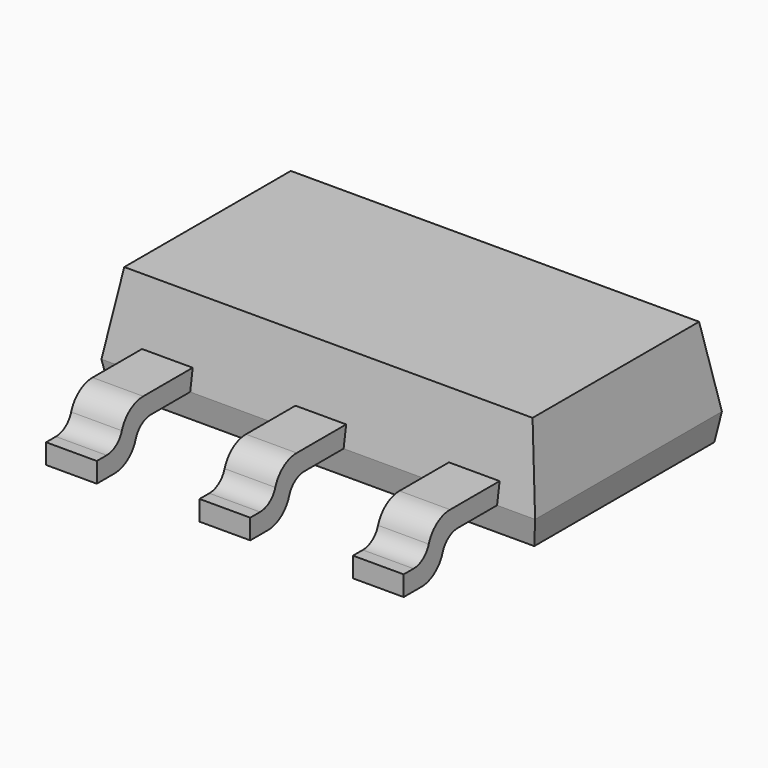
from build123d import *

# Parameters (mm, degrees)
F3_W      = 3
F3_H      = 1.37
F3_W_2    = 1.54
F3_W_3    = 0.76
F3_H_2    = 0.38
F4_DEPTH  = 1.2
F4_TAPER  = 9
F4_FACE_W = 6.5
F4_FACE_H = 3.5
F5_DEPTH  = 0.4
F5_TAPER  = 9
F3_H_3    = 1
F3_H_4    = 0.3
F6_DEPTH  = 0.3
F3_H_5    = 0.45
F7_DEPTH  = 0.5
F8_DEPTH  = 0.2
F9_R      = 0.42
F10_R     = 0.3


with BuildPart() as f4:
    # F3 (on Top) → F4 (new body)
    with BuildSketch(Plane.XY):
        Polygon((2.68, -1.75), (3.25, -1.75), (3.25, 1.75), (1.5, 1.75), (1.5, 0.38), (2.68, 0.38), (2.68, 0), (2.68, -0.38), align=None)
        with Locations((0, 1.065)):
            Rectangle(F3_W, F3_H)
        with Locations((1.15, -1.065)):
            Rectangle(F3_W_2, F3_H)
        Polygon((1.5, 0), (1.5, 0.38), (-1.5, 0.38), (-1.5, 0), (-0.38, 0), (0.38, 0), align=None)
        Polygon((0.38, -0.38), (1.92, -0.38), (1.92, 0), (2.68, 0), (2.68, 0.38), (1.5, 0.38), (1.5, 0), (0.38, 0), align=None)
        with Locations((2.3, -0.19)):
            Rectangle(F3_W_3, F3_H_2)
        with Locations((2.3, -1.065)):
            Rectangle(F3_W_3, F3_H)
        with Locations((0, -1.065)):
            Rectangle(F3_W_3, F3_H)
        with Locations((0, -0.19)):
            Rectangle(F3_W_3, F3_H_2)
        with Locations((-1.15, -1.065)):
            Rectangle(F3_W_2, F3_H)
        Polygon((-1.5, 0), (-1.5, 0.38), (-2.68, 0.38), (-2.68, 0), (-1.92, 0), (-1.92, -0.38), (-0.38, -0.38), (-0.38, 0), align=None)
        Polygon((-1.5, 0.38), (-1.5, 1.75), (-3.25, 1.75), (-3.25, -1.75), (-2.68, -1.75), (-2.68, -0.38), (-2.68, 0), (-2.68, 0.38), align=None)
        with Locations((-2.3, -0.19)):
            Rectangle(F3_W_3, F3_H_2)
        with Locations((-2.3, -1.065)):
            Rectangle(F3_W_3, F3_H)
    extrude(amount=F4_DEPTH, taper=F4_TAPER)

    # F4_face (on face) → F5 (join)
    with BuildSketch(Plane(origin=(0, 0, 0), x_dir=(1, 0, 0), z_dir=(0, 0, -1))):
        Rectangle(F4_FACE_W, F4_FACE_H)
    extrude(amount=F5_DEPTH, taper=F5_TAPER)


with BuildPart() as f6:
    # F3 (on Top) → F6 (new body)
    with BuildSketch(Plane.XY):
        with Locations((0, 1.065)):
            Rectangle(F3_W, F3_H)
        Polygon((1.5, 0), (1.5, 0.38), (-1.5, 0.38), (-1.5, 0), (-0.38, 0), (0.38, 0), align=None)
        Polygon((-1.5, 0), (-1.5, 0.38), (-2.68, 0.38), (-2.68, 0), (-1.92, 0), (-1.92, -0.38), (-0.38, -0.38), (-0.38, 0), align=None)
        with Locations((-2.3, -1.065)):
            Rectangle(F3_W_3, F3_H)
        with Locations((-2.3, -0.19)):
            Rectangle(F3_W_3, F3_H_2)
        with Locations((0, -1.065)):
            Rectangle(F3_W_3, F3_H)
        Polygon((0.38, -0.38), (1.92, -0.38), (1.92, 0), (2.68, 0), (2.68, 0.38), (1.5, 0.38), (1.5, 0), (0.38, 0), align=None)
        with Locations((0, -0.19)):
            Rectangle(F3_W_3, F3_H_2)
        with Locations((2.3, -1.065)):
            Rectangle(F3_W_3, F3_H)
        with Locations((2.3, -0.19)):
            Rectangle(F3_W_3, F3_H_2)
        with Locations((-2.3, -2.25)):
            Rectangle(F3_W_3, F3_H_3)
        with Locations((-2.3, -2.9)):
            Rectangle(F3_W_3, F3_H_4)
        with Locations((0, -2.25)):
            Rectangle(F3_W_3, F3_H_3)
        with Locations((0, -2.9)):
            Rectangle(F3_W_3, F3_H_4)
        with Locations((2.3, -2.25)):
            Rectangle(F3_W_3, F3_H_3)
        with Locations((2.3, -2.9)):
            Rectangle(F3_W_3, F3_H_4)
        with Locations((0, 2.25)):
            Rectangle(F3_W, F3_H_3)
        with Locations((0, 2.9)):
            Rectangle(F3_W, F3_H_4)
    extrude(amount=F6_DEPTH)

    # F3 (on Top) → F7 (join)
    with BuildSketch(Plane.XY):
        with Locations((0, 3.275)):
            Rectangle(F3_W, F3_H_5)
        with Locations((0, 2.9)):
            Rectangle(F3_W, F3_H_4)
        with Locations((-2.3, -2.9)):
            Rectangle(F3_W_3, F3_H_4)
        with Locations((-2.3, -3.275)):
            Rectangle(F3_W_3, F3_H_5)
        with Locations((0, -3.275)):
            Rectangle(F3_W_3, F3_H_5)
        with Locations((2.3, -3.275)):
            Rectangle(F3_W_3, F3_H_5)
        with Locations((0, -2.9)):
            Rectangle(F3_W_3, F3_H_4)
        with Locations((2.3, -2.9)):
            Rectangle(F3_W_3, F3_H_4)
    extrude(amount=-F7_DEPTH)

    # F3 (on Top) → F8 (cut)
    with BuildSketch(Plane.XY):
        with Locations((0, 3.275)):
            Rectangle(F3_W, F3_H_5)
        with Locations((-2.3, -3.275)):
            Rectangle(F3_W_3, F3_H_5)
        with Locations((0, -3.275)):
            Rectangle(F3_W_3, F3_H_5)
        with Locations((2.3, -3.275)):
            Rectangle(F3_W_3, F3_H_5)
    extrude(amount=-F8_DEPTH, mode=Mode.SUBTRACT)

    # F9
    f9_edges = [f6.edges().sort_by_distance(p)[0] for p in [
        (-2.3, -3.05, 0.3),
        (0, -3.05, 0.3),
        (2.3, -3.05, 0.3),
        (0, 3.05, 0.3),
        (0, 2.75, -0.5),
        (2.3, -2.75, -0.5),
        (0, -2.75, -0.5),
        (-2.3, -2.75, -0.5),
    ]]
    fillet(f9_edges, radius=F9_R)

    # F10
    f10_edges = [f6.edges().sort_by_distance(p)[0] for p in [
        (-2.3, -3.05, -0.2),
        (0, -3.05, -0.2),
        (2.3, -3.05, -0.2),
        (0, 3.05, -0.2),
        (0, 2.75, 0),
        (2.3, -2.75, 0),
        (0, -2.75, 0),
        (-2.3, -2.75, 0),
    ]]
    fillet(f10_edges, radius=F10_R)


solid = Compound([f4.part, f6.part])
